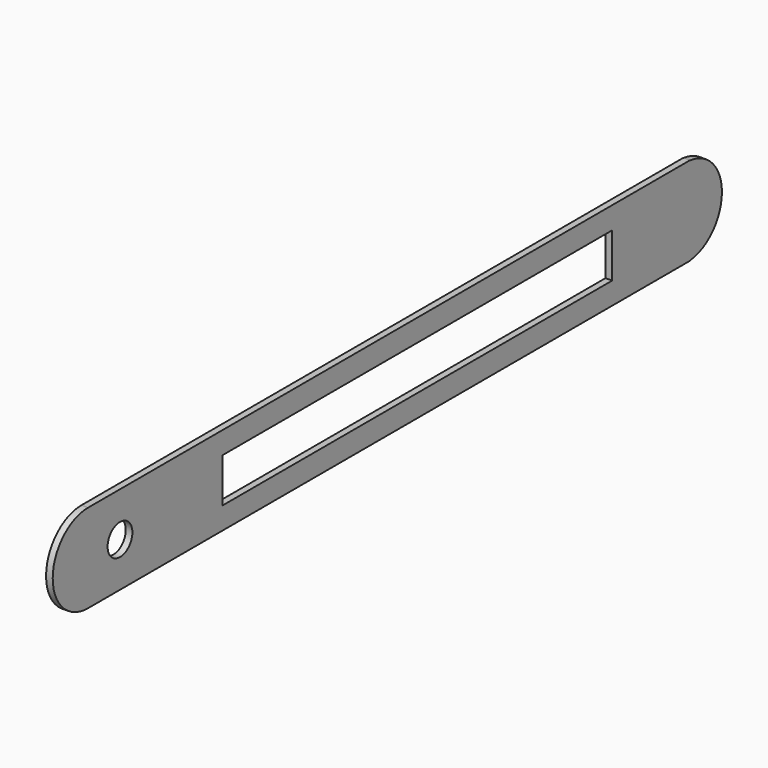
from build123d import *

# Parameters (mm, degrees)
CYLINDER004_R     = 3.5
CYLINDER004_DEPTH = 10
BOX004_W          = 10
BOX004_H          = 110
BOX004_DEPTH      = 10
CYLINDER003_R     = 10
CYLINDER003_DEPTH = 1.5
BOX002_W          = 1.5
BOX002_H          = 170
BOX002_DEPTH      = 20
CYLINDER002_R     = 10
CYLINDER002_DEPTH = 1.5


with BuildPart() as pwrjack:
    # Cylinder004 → Cylinder004 (new body)
    with BuildSketch(Plane(origin=(-3, 9, 0), x_dir=(0, 0, -1), z_dir=(1, 0, 0))):
        Circle(CYLINDER004_R)
    extrude(amount=CYLINDER004_DEPTH)


with BuildPart() as cube003:
    # Box004 → Box004 (new body)
    with BuildSketch(Plane(origin=(-3, 38, -5), x_dir=(1, 0, 0), z_dir=(0, 0, 1))):
        with Locations((5, 55)):
            Rectangle(BOX004_W, BOX004_H)
    extrude(amount=BOX004_DEPTH)


with BuildPart() as cylinder003:
    # Cylinder003 → Cylinder003 (new body)
    with BuildSketch(Plane(origin=(0, 169, 0), x_dir=(0, 0, -1), z_dir=(1, 0, 0))):
        Circle(CYLINDER003_R)
    extrude(amount=CYLINDER003_DEPTH)


with BuildPart() as cube002:
    # Box002 → Box002 (new body)
    with BuildSketch(Plane.XY.offset(-10)):
        with Locations((0.75, 85)):
            Rectangle(BOX002_W, BOX002_H)
    extrude(amount=BOX002_DEPTH)


with BuildPart() as cut003:
    # Cylinder002 → Cylinder002 (new body)
    with BuildSketch(Plane(origin=(0, 0, 0), x_dir=(0, 0, -1), z_dir=(1, 0, 0))):
        Circle(CYLINDER002_R)
    extrude(amount=CYLINDER002_DEPTH)

    # Fusion001: union Cylinder003, Cube002
    add(cylinder003.part)
    add(cube002.part)

    # Cut001: cut Cube003
    add(cube003.part, mode=Mode.SUBTRACT)

    # Cut003: cut pwrjack
    add(pwrjack.part, mode=Mode.SUBTRACT)


solid = cut003.part
